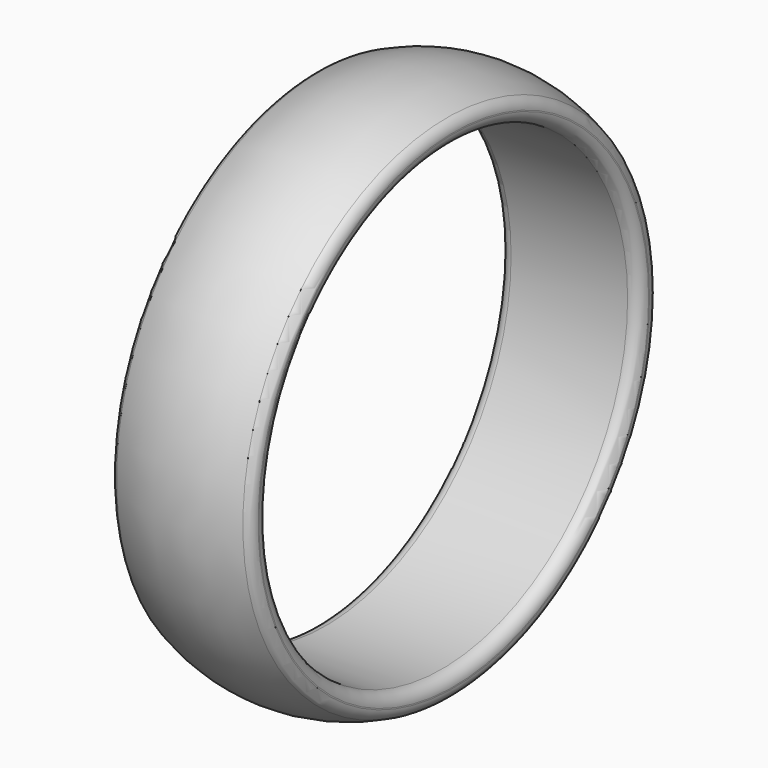
from build123d import *


with BuildPart() as f1:
    # F0 (on Top) → F1 (revolve)
    with BuildSketch(Plane.XY):
        with BuildLine():
            ThreePointArc((-2.709844, 10.953834), (-2.921261, 10.769331), (-3, 10.5))
            Line((-3, 10.5), (-3, 10.45))
            ThreePointArc((-3, 10.45), (-2.853553, 10.096447), (-2.5, 9.95))
            Line((-2.5, 9.95), (2.404344, 9.95))
            Line((2.404344, 9.95), (2.5, 9.95))
            ThreePointArc((2.5, 9.95), (2.853553, 10.096447), (3, 10.45))
            Line((3, 10.45), (3, 10.5))
            ThreePointArc((3, 10.5), (2.921261, 10.769331), (2.709844, 10.953834))
            ThreePointArc((2.709844, 10.953834), (0, 11.55), (-2.709844, 10.953834))
        make_face()
    revolve(axis=Axis((2.325828, 0, 0), (1, 0, 0)))


solid = f1.part
